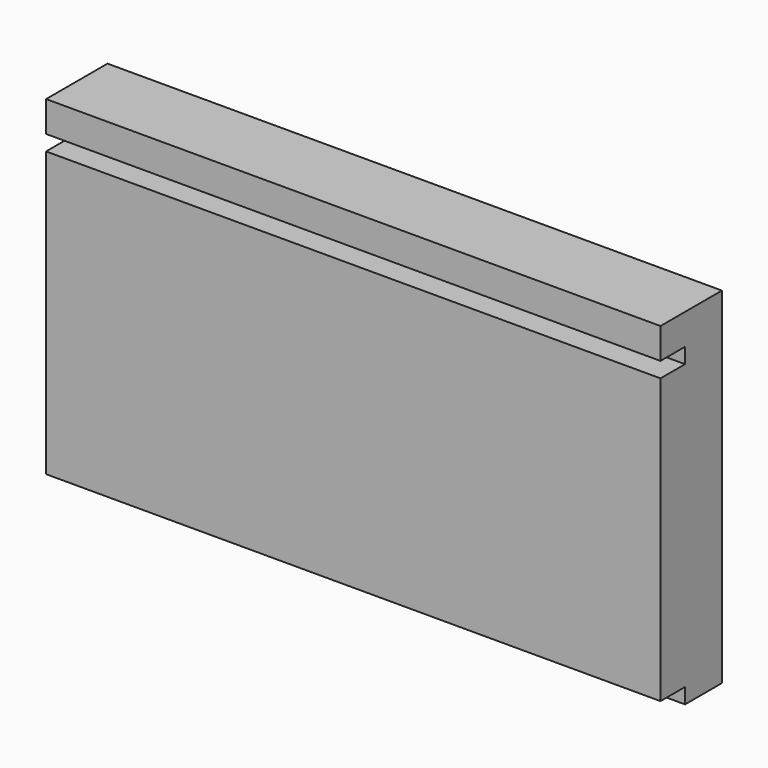
from build123d import *

# Parameters (mm, degrees)
F0_W     = 160
F0_H     = 74
F1_DEPTH = 20
F0_H_2   = 4
F2_DEPTH = 12
F3_DEPTH = 12
F0_H_3   = 8
F4_DEPTH = 20
F5_DEPTH = 12
F6_DEPTH = 12
F7_DEPTH = 12


with BuildPart() as f1:
    # F0 (on Front) → F1 (new body)
    with BuildSketch(Plane.XZ):
        with Locations((-6.873813, -6.665557)):
            Rectangle(F0_W, F0_H)
    extrude(amount=F1_DEPTH)

    # F0 (on Front) → F2 (join)
    with BuildSketch(Plane.XZ):
        with Locations((-6.873813, -45.665557)):
            Rectangle(F0_W, F0_H_2)
    extrude(amount=F2_DEPTH)

    # F0 (on Front) → F3 (join)
    with BuildSketch(Plane.XZ):
        with Locations((-6.873813, 32.334443)):
            Rectangle(F0_W, F0_H_2)
    extrude(amount=F3_DEPTH)

    # F0 (on Front) → F4 (join)
    with BuildSketch(Plane.XZ):
        with Locations((-6.873813, 38.334443)):
            Rectangle(F0_W, F0_H_3)
    extrude(amount=F4_DEPTH)

    # F0 (on Front) → F5 (join)
    with BuildSketch(Plane.XZ):
        with Locations((-6.873813, 32.334443)):
            Rectangle(F0_W, F0_H_2)
    extrude(amount=F5_DEPTH)

    # F0 (on Front) → F6 (join)
    with BuildSketch(Plane.XZ):
        with Locations((-6.873813, -45.665557)):
            Rectangle(F0_W, F0_H_2)
    extrude(amount=F6_DEPTH)

    # F0 (on Front) → F7 (join)
    with BuildSketch(Plane.XZ):
        with Locations((-6.873813, 32.334443)):
            Rectangle(F0_W, F0_H_2)
    extrude(amount=F7_DEPTH)


solid = f1.part
